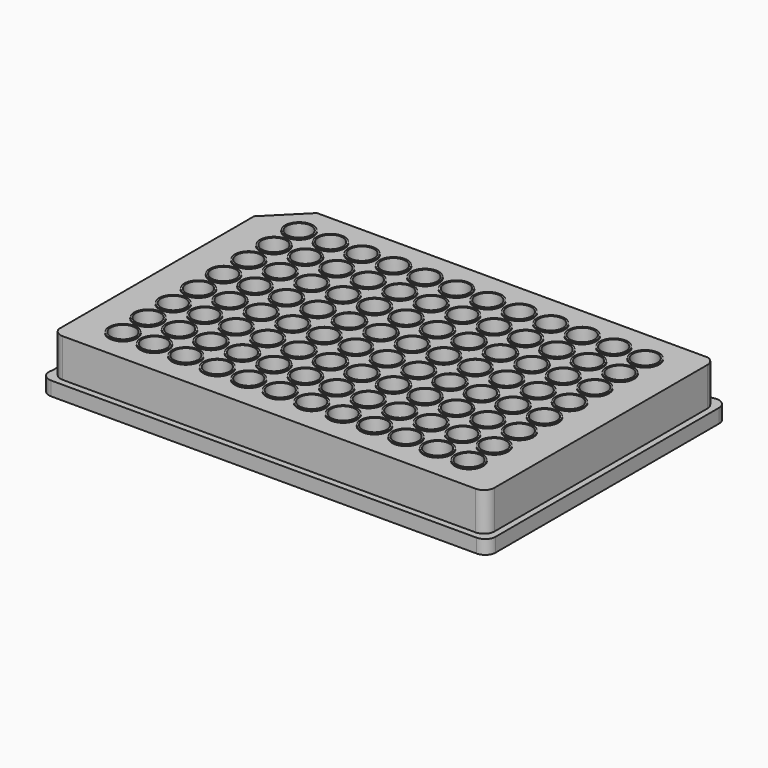
from build123d import *

# Parameters (mm, degrees)
SKETCH017_R       = 3.4
SKETCH016_R       = 3.5
ARRAY008_X_COUNT  = 12
ARRAY008_X_PITCH  = 9
ARRAY008_Y_COUNT  = 8
ARRAY008_Y_PITCH  = 9
CYLINDER002_R     = 4
CYLINDER002_DEPTH = 12.7
ARRAY009_X_COUNT  = 12
ARRAY009_X_PITCH  = 9
ARRAY009_Y_COUNT  = 8
ARRAY009_Y_PITCH  = 9
CYLINDER003_R     = 4
CYLINDER003_DEPTH = 15
ARRAY010_X_COUNT  = 12
ARRAY010_X_PITCH  = 9
ARRAY010_Y_COUNT  = 8
ARRAY010_Y_PITCH  = 9
PAD001_DEPTH      = 11
CYLINDER_R        = 4
CYLINDER_DEPTH    = 10
ARRAY_X_COUNT     = 12
ARRAY_X_PITCH     = 9
ARRAY_Y_COUNT     = 8
ARRAY_Y_PITCH     = 9
PAD_DEPTH         = 4


with BuildPart() as obj1:
    # Sketch017 → AdditiveLoft005 section 0
    with BuildSketch(Plane.XY):
        Circle(SKETCH017_R)
    # Sketch016 → AdditiveLoft005 section 1
    with BuildSketch(Plane.XY.offset(11.3)):
        Circle(SKETCH016_R)
    loft()

    # Array008 X: obj1 ×12


with BuildPart() as obj1_1:
    add(obj1.part)
    with Locations(*[(i * ARRAY008_X_PITCH, 0, 0) for i in range(1, ARRAY008_X_COUNT)]):
        add(obj1.part)

    # Array008 Y: obj1 ×8


with BuildPart() as obj1_2:
    add(obj1_1.part)
    with Locations(*[(0, i * ARRAY008_Y_PITCH, 0) for i in range(1, ARRAY008_Y_COUNT)]):
        add(obj1_1.part)


with BuildPart() as obj2:
    # Cylinder002 → Cylinder002 (new body)
    with BuildSketch(Plane.XY.offset(-1.4)):
        Circle(CYLINDER002_R)
    extrude(amount=CYLINDER002_DEPTH)

    # Array009 X: obj2 ×12


with BuildPart() as obj2_1:
    add(obj2.part)
    with Locations(*[(i * ARRAY009_X_PITCH, 0, 0) for i in range(1, ARRAY009_X_COUNT)]):
        add(obj2.part)

    # Array009 Y: obj2 ×8


with BuildPart() as obj2_2:
    add(obj2_1.part)
    with Locations(*[(0, i * ARRAY009_Y_PITCH, 0) for i in range(1, ARRAY009_Y_COUNT)]):
        add(obj2_1.part)

    # Cut003: cut obj1
    add(obj1_2.part, mode=Mode.SUBTRACT)


with BuildPart() as array010:
    # Cylinder003 → Cylinder003 (new body)
    with BuildSketch(Plane.XY.offset(-2)):
        Circle(CYLINDER003_R)
    extrude(amount=CYLINDER003_DEPTH)

    # Array010 X: Array010 ×12


with BuildPart() as array010_1:
    add(array010.part)
    with Locations(*[(i * ARRAY010_X_PITCH, 0, 0) for i in range(1, ARRAY010_X_COUNT)]):
        add(array010.part)

    # Array010 Y: Array010 ×8


with BuildPart() as array010_2:
    add(array010_1.part)
    with Locations(*[(0, i * ARRAY010_Y_PITCH, 0) for i in range(1, ARRAY010_Y_COUNT)]):
        add(array010_1.part)


with BuildPart() as cut:
    # Sketch018 → Pad001 (new body)
    with BuildSketch(Plane.XY.offset(4)):
        with BuildLine():
            Line((111.5, 69.60965), (111.5, -6.5))
            ThreePointArc((108.5, -9.5), (110.62132, -8.62132), (111.5, -6.5))
            Line((108.5, -9.5), (-9.627011, -9.5))
            ThreePointArc((-12.5, -7.363675), (-11.417119, -8.907387), (-9.627011, -9.5))
            Line((-12.5, -7.363675), (-12.5, 62.5))
            Line((-2.5, 72.5), (-12.5, 62.5))
            Line((-2.5, 72.5), (109.303666, 72.5))
            ThreePointArc((111.5, 69.60965), (110.888619, 71.424726), (109.303666, 72.5))
        make_face()
    extrude(amount=PAD001_DEPTH)


with BuildPart() as cut_1:
    # Body012 placement: moved
    add(cut.part.moved(Location((0, 0, -4))))

    # Cut: cut Array010
    add(array010_2.part, mode=Mode.SUBTRACT)


with BuildPart() as array:
    # Cylinder → Cylinder (new body)
    with BuildSketch(Plane.XY.offset(-2)):
        Circle(CYLINDER_R)
    extrude(amount=CYLINDER_DEPTH)

    # Array X: Array ×12


with BuildPart() as array_1:
    add(array.part)
    with Locations(*[(i * ARRAY_X_PITCH, 0, 0) for i in range(1, ARRAY_X_COUNT)]):
        add(array.part)

    # Array Y: Array ×8


with BuildPart() as array_2:
    add(array_1.part)
    with Locations(*[(0, i * ARRAY_Y_PITCH, 0) for i in range(1, ARRAY_Y_COUNT)]):
        add(array_1.part)


with BuildPart() as cut004:
    # Sketch → Pad (new body)
    with BuildSketch(Plane.XY):
        with BuildLine():
            Line((113.3, 71.530282), (113.3, -8.36))
            ThreePointArc((110.3, -11.36), (112.42132, -10.48132), (113.3, -8.36))
            Line((110.3, -11.36), (-11.470283, -11.36))
            ThreePointArc((-14.3, -7.363657), (-13.918653, -10.093633), (-11.470283, -11.36))
            Line((-14.3, 71.36), (-14.3, -7.363657))
            ThreePointArc((-11.3, 74.36), (-13.42132, 73.48132), (-14.3, 71.36))
            Line((109.30366, 74.36), (-11.3, 74.36))
            ThreePointArc((113.3, 71.530282), (112.033635, 73.978651), (109.30366, 74.36))
        make_face()
    extrude(amount=PAD_DEPTH)


with BuildPart() as cut004_1:
    # Body placement: moved
    add(cut004.part.moved(Location((0, 0, -4))))

    # Cut004: cut Array
    add(array_2.part, mode=Mode.SUBTRACT)


solid = Compound([obj2_2.part, cut_1.part, cut004_1.part])
